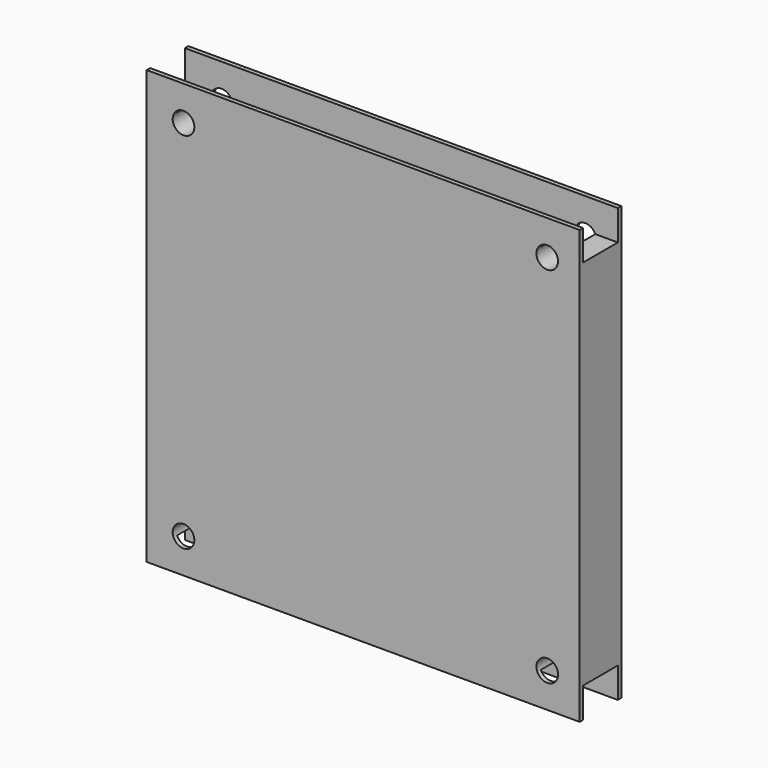
from build123d import *

# Parameters (mm, degrees)
F2_DEPTH = 158.75
F3_R     = 3.96875
F4_DEPTH = 19.051


with BuildPart() as f2:
    # F1 (on offset) → F2 (new body)
    with BuildSketch(Plane.YZ.offset(78.58125)):
        Polygon((-7.9375, 79.375), (-9.525, 79.375), (-9.525, -79.375), (-7.9375, -79.375), (-7.9375, -68.2625), (7.9375, -68.2625), (7.9375, -79.375), (9.525, -79.375), (9.525, 79.375), (7.9375, 79.375), (7.9375, 68.2625), (-7.9375, 68.2625), align=None)
    extrude(amount=-F2_DEPTH)

    # F3 (on face) → F4 (cut, through all)
    with BuildSketch(Plane(origin=(0, 9.525, 0), x_dir=(-1, 0, 0), z_dir=(0, 1, 0))):
        with Locations((66.675, 66.675)):
            Circle(F3_R)
        with Locations((-66.675, 66.675)):
            Circle(F3_R)
        with Locations((-66.675, -66.675)):
            Circle(F3_R)
        with Locations((66.675, -66.675)):
            Circle(F3_R)
    extrude(amount=-F4_DEPTH, mode=Mode.SUBTRACT)


solid = f2.part
